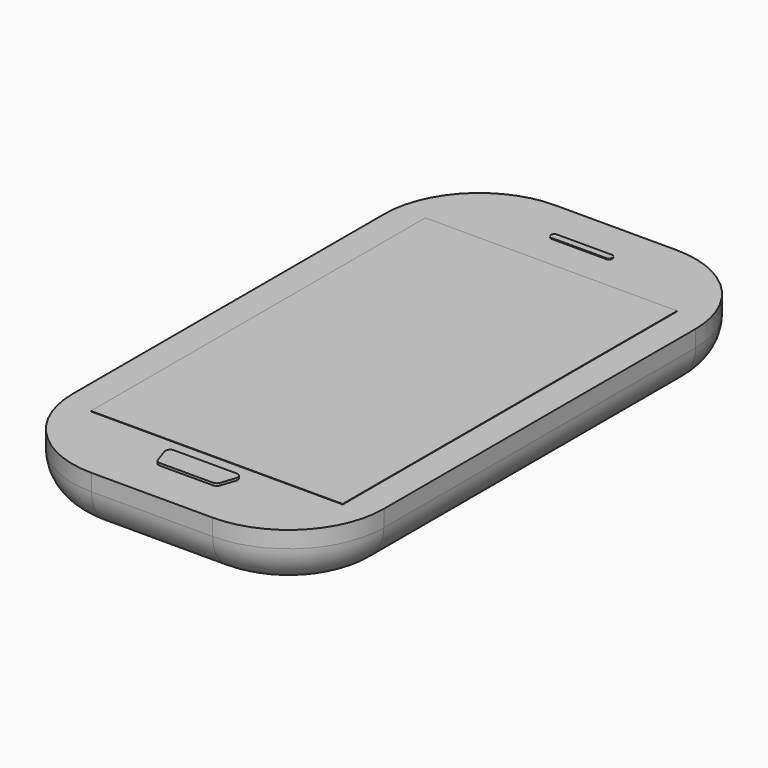
from build123d import *

# Parameters (mm, degrees)
F1_DEPTH = 11.5
F2_R     = 8
F4_DEPTH = 0.5
F5_W     = 53
F5_H     = 88
F6_DEPTH = 0.1
F8_DEPTH = 0.2


with BuildPart() as f1:
    # F0 (on Top) → F1 (new body)
    with BuildSketch(Plane.XY):
        with BuildLine():
            ThreePointArc((32.75, 41), (26.892136, 55.142136), (12.75, 61))
            Line((12.75, 61), (-12.75, 61))
            ThreePointArc((-12.75, 61), (-26.892136, 55.142136), (-32.75, 41))
            Line((-32.75, 41), (-32.75, -41))
            ThreePointArc((-32.75, -41), (-26.892136, -55.142136), (-12.75, -61))
            Line((-12.75, -61), (12.75, -61))
            ThreePointArc((12.75, -61), (26.892136, -55.142136), (32.75, -41))
            Line((32.75, -41), (32.75, 41))
        make_face()
    extrude(amount=F1_DEPTH)

    # F2
    f2_edges = [f1.edges().sort_by_distance(p)[0] for p in [
        (-26.892136, 55.142136, 0),
    ]]
    fillet(f2_edges, radius=F2_R)

    # F3 (on face) → F4 (join)
    with BuildSketch(Plane.XY.offset(11.5)):
        with BuildLine():
            Line((0, -47), (-6.607793, -47))
            ThreePointArc((-6.607793, -47), (-7.419988, -47.416614), (-7.55544, -48.31932))
            Line((-7.55544, -48.31932), (-6.544556, -51.31932))
            ThreePointArc((-6.544556, -51.31932), (-6.180295, -51.812195), (-5.596909, -52))
            Line((-5.596909, -52), (0, -52))
            Line((0, -52), (5.596909, -52))
            ThreePointArc((5.596909, -52), (6.180295, -51.812195), (6.544556, -51.31932))
            Line((6.544556, -51.31932), (7.55544, -48.31932))
            ThreePointArc((7.55544, -48.31932), (7.419988, -47.416614), (6.607793, -47))
            Line((6.607793, -47), (0, -47))
        make_face()
    extrude(amount=F4_DEPTH)

    # F5 (on face) → F6 (join)
    with BuildSketch(Plane.XY.offset(11.5)):
        Rectangle(F5_W, F5_H)
    extrude(amount=F6_DEPTH)

    # F7 (on face) → F8 (join)
    with BuildSketch(Plane.XY.offset(11.5)):
        with BuildLine():
            Line((-5.75, 51.25), (5.75, 51.25))
            ThreePointArc((5.75, 51.25), (6.28033, 51.46967), (6.5, 52))
            ThreePointArc((6.5, 52), (6.28033, 52.53033), (5.75, 52.75))
            Line((5.75, 52.75), (-5.75, 52.75))
            ThreePointArc((-5.75, 52.75), (-6.28033, 52.53033), (-6.5, 52))
            ThreePointArc((-6.5, 52), (-6.28033, 51.46967), (-5.75, 51.25))
        make_face()
    extrude(amount=F8_DEPTH)


solid = f1.part
